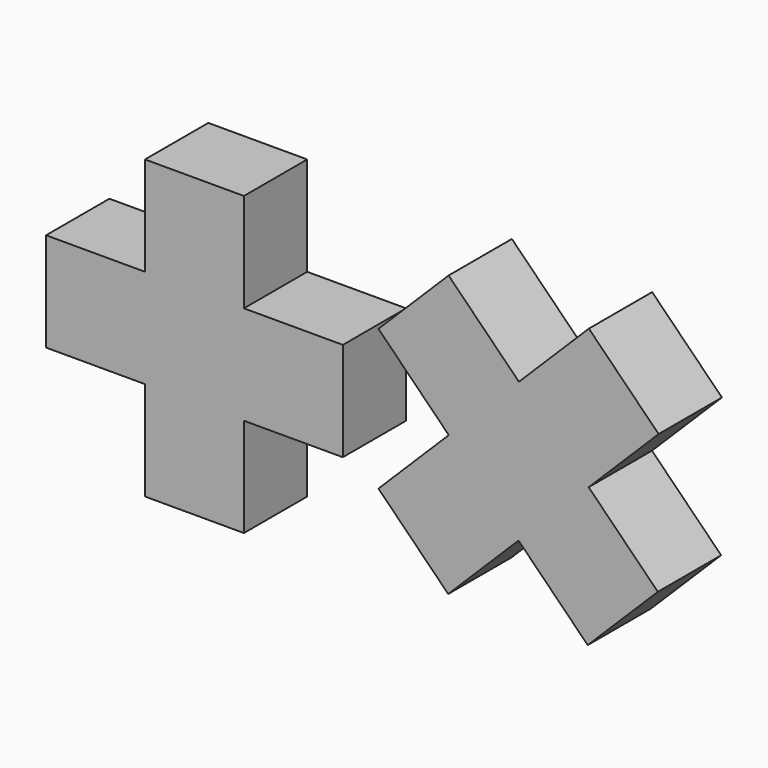
from build123d import *

# Parameters (mm, degrees)
F0_W     = 75
F0_H     = 25
F3_DEPTH = 20
F1_W     = 25
F1_H     = 75
F4_DEPTH = 20
F5_DEPTH = 20


with BuildPart() as f3:
    # F0 (on Front) → F3 (new body)
    with BuildSketch(Plane.XZ):
        with Locations((-37.5, -2.6279494166)):
            Rectangle(F0_W, F0_H)
    extrude(amount=F3_DEPTH)

    # F1 (on Front) → F4 (join)
    with BuildSketch(Plane.XZ):
        with Locations((-37.4999418855, -2.6280174498)):
            Rectangle(F1_W, F1_H)
    extrude(amount=F4_DEPTH)


with BuildPart() as f5:
    # F2 (on Front) → F5 (new body)
    with BuildSketch(Plane.XZ):
        Polygon((44.5007340238, 16.1337594985), (26.7262023028, 34.0062912639), (9.0000007387, 16.3772873751), (26.7745324597, -1.4952443902), align=None)
        Polygon((62.1786054309, 33.714698238), (44.5007340238, 16.1337594985), (62.1297379126, -1.5924420656), (79.8076093197, 15.9884966739), align=None)
        Polygon((62.1297379126, -1.5924420656), (44.5007340238, 16.1337594985), (26.7745324597, -1.4952443902), (44.4035363485, -19.2214459543), align=None)
        Polygon((79.6132139691, -19.1723134283), (62.1297379126, -1.5924420656), (44.4035363485, -19.2214459543), (61.887012405, -36.8013173171), align=None)
        Polygon((44.4035363485, -19.2214459543), (26.7745324597, -1.4952443902), (9.0000007387, -19.1723134283), (26.6290046275, -36.8985149924), align=None)
    extrude(amount=F5_DEPTH)


solid = Compound([f3.part, f5.part])
